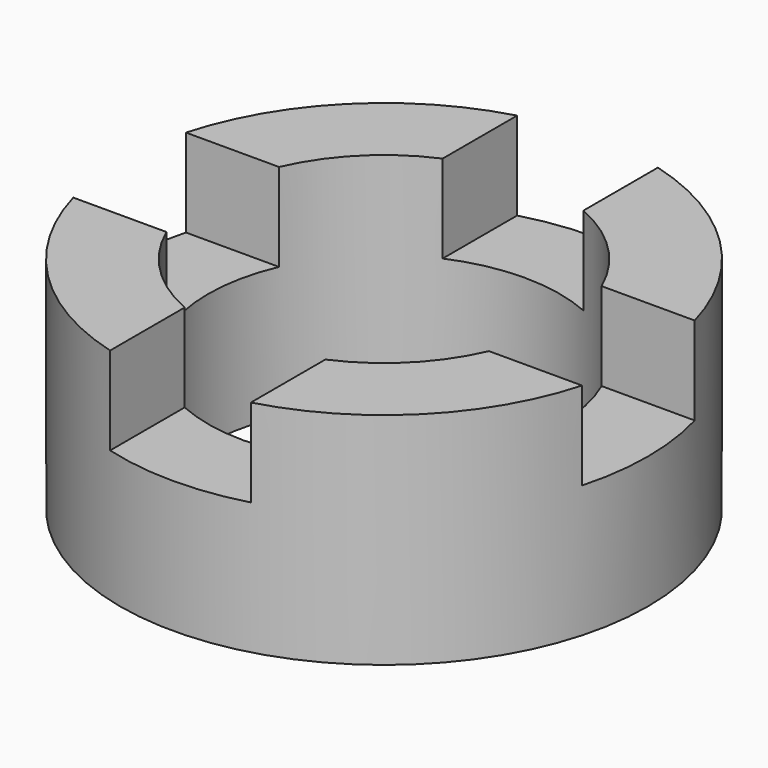
from build123d import *

# Parameters (mm, degrees)
F0_R     = 300
F0_R_2   = 200
F1_DEPTH = 250
F3_DEPTH = 100


with BuildPart() as f1:
    # F0 (on Top) → F1 (new body)
    with BuildSketch(Plane.XY):
        Circle(F0_R)
        Circle(F0_R_2, mode=Mode.SUBTRACT)
    extrude(amount=F1_DEPTH)

    # F2 (on face) → F3 (cut)
    with BuildSketch(Plane.XY.offset(250)):
        with BuildLine():
            ThreePointArc((-80, 183.3030277982), (0, 200), (80, 183.3030277982))
            Line((80, 183.3030277982), (80, 289.136645896))
            ThreePointArc((80, 289.136645896), (0, 300), (-80, 289.136645896))
            Line((-80, 289.136645896), (-80, 183.3030277982))
        make_face()
        with BuildLine():
            Line((289.136645896, 80), (183.3030277982, 80))
            ThreePointArc((183.3030277982, 80), (195.7812625861, 40.8619287378), (200, 0))
            ThreePointArc((200, 0), (195.7812625861, -40.8619287378), (183.3030277982, -80))
            Line((183.3030277982, -80), (289.136645896, -80))
            ThreePointArc((289.136645896, -80), (297.271755948, -40.3671043747), (300, 0))
            ThreePointArc((300, 0), (297.271755948, 40.3671043747), (289.136645896, 80))
        make_face()
        with BuildLine():
            Line((80, -289.136645896), (80, -183.3030277982))
            ThreePointArc((80, -183.3030277982), (0, -200), (-80, -183.3030277982))
            Line((-80, -183.3030277982), (-80, -289.136645896))
            ThreePointArc((-80, -289.136645896), (0, -300), (80, -289.136645896))
        make_face()
        with BuildLine():
            ThreePointArc((-183.3030277982, -80), (-200, 0), (-183.3030277982, 80))
            Line((-183.3030277982, 80), (-289.136645896, 80))
            ThreePointArc((-289.136645896, 80), (-300, 0), (-289.136645896, -80))
            Line((-289.136645896, -80), (-183.3030277982, -80))
        make_face()
    extrude(amount=-F3_DEPTH, mode=Mode.SUBTRACT)


solid = f1.part
